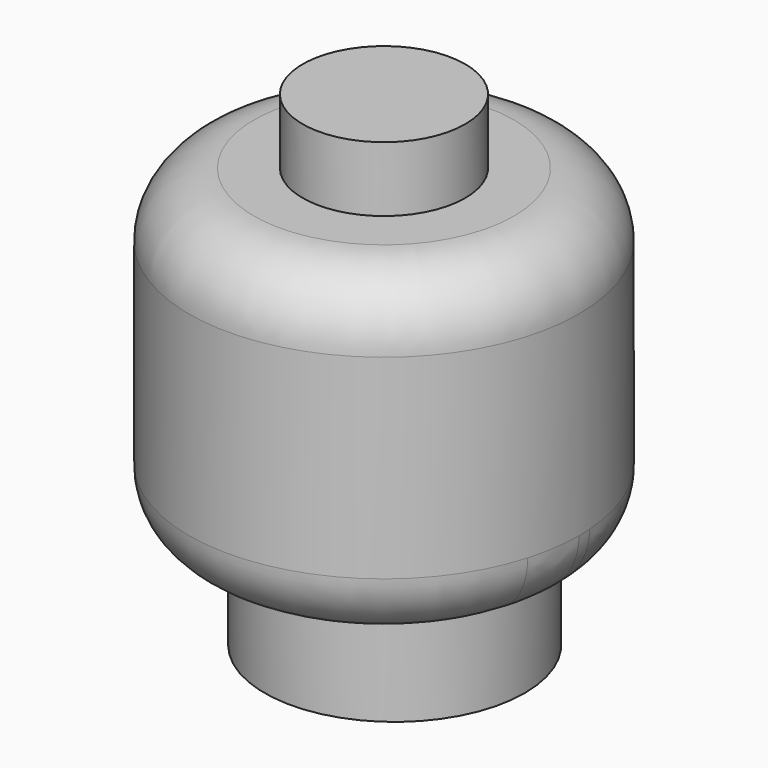
from build123d import *

# Parameters (mm, degrees)
F0_R     = 4
F1_DEPTH = 1.5
F2_R     = 6
F3_DEPTH = 10
F4_R     = 2.5
F5_DEPTH = 2
F6_R     = 2


with BuildPart() as f1:
    # F0 (on Top) → F1 (new body, symmetric)
    with BuildSketch(Plane.XY):
        with Locations((0.096983, 0.290948)):
            Circle(F0_R)
    extrude(amount=F1_DEPTH, both=True)

    # F2 (on face) → F3 (join)
    with BuildSketch(Plane.XY.offset(1.5)):
        Circle(F2_R)
    extrude(amount=F3_DEPTH)

    # F4 (on face) → F5 (join)
    with BuildSketch(Plane.XY.offset(11.5)):
        Circle(F4_R)
    extrude(amount=F5_DEPTH)

    # F6
    f6_edges = [f1.edges().sort_by_distance(p)[0] for p in [
        (-6, 0, 1.5),
        (-6, 0, 11.5),
    ]]
    fillet(f6_edges, radius=F6_R)


solid = f1.part
